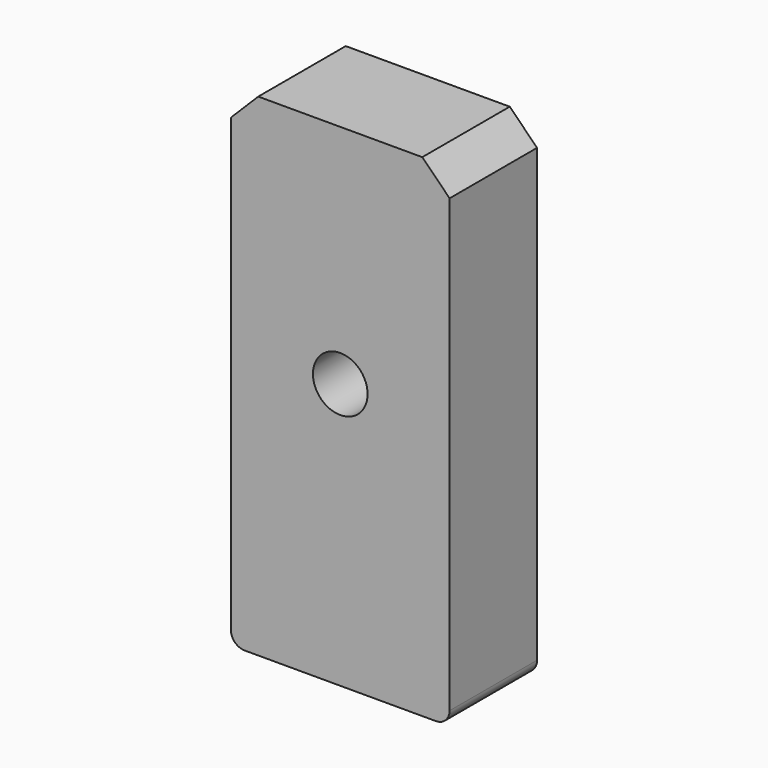
from build123d import *

# Parameters (mm, degrees)
F0_W     = 400
F0_H     = 900
F1_DEPTH = 200
F2_SIZE  = 50
F3_R     = 25
F4_R     = 50
F5_DEPTH = 200.001


with BuildPart() as f1:
    # F0 (on Front) → F1 (new body)
    with BuildSketch(Plane.XZ):
        with Locations((0, -35.980602)):
            Rectangle(F0_W, F0_H)
    extrude(amount=F1_DEPTH)

    # F2
    f2_edges = [f1.edges().sort_by_distance(p)[0] for p in [
        (-200, -100, 414.019398),
        (200, -100, 414.019398),
    ]]
    chamfer(f2_edges, length=F2_SIZE)

    # F3
    f3_edges = [f1.edges().sort_by_distance(p)[0] for p in [
        (-200, -100, -485.980602),
        (200, -100, -485.980602),
    ]]
    fillet(f3_edges, radius=F3_R)

    # F4 (on face) → F5 (cut, through all)
    with BuildSketch(Plane.XZ.offset(200)):
        Circle(F4_R)
    extrude(amount=-F5_DEPTH, mode=Mode.SUBTRACT)


solid = f1.part
